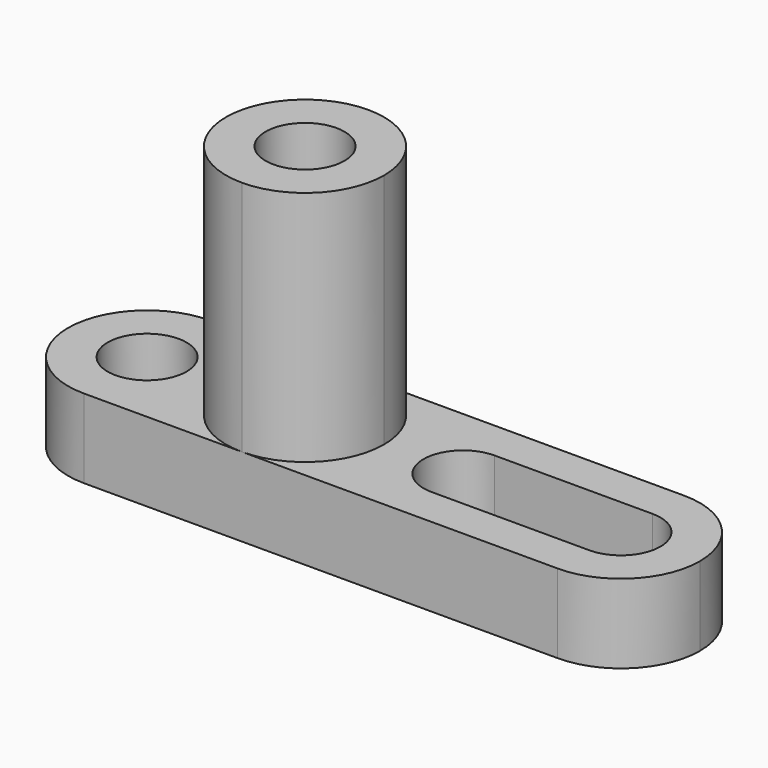
from build123d import *

# Parameters (mm, degrees)
F1_DEPTH  = 25.4
F3_DEPTH  = 38.1
F4_R      = 6.35
F5_DEPTH  = 63.5
F6_R      = 6.35
F7_DEPTH  = 25.4
F9_DEPTH  = 25.4
F11_DEPTH = 25.4
F13_DEPTH = 25.4


with BuildPart() as f1:
    # F0 (on Front) → F1 (new body)
    with BuildSketch(Plane.XZ):
        Polygon((-101.6, 0), (0, 0), (0, 12.7), (-50.8, 12.7), (-50.8, 50.8), (-76.2, 50.8), (-76.2, 12.7), (-101.6, 12.7), align=None)
    extrude(amount=F1_DEPTH)

    # F2 (on face) → F3 (cut)
    with BuildSketch(Plane.XY.offset(50.8)):
        with BuildLine():
            ThreePointArc((-63.5, 0), (-54.5197438789, -3.7197438789), (-50.8, -12.7))
            Line((-50.8, -12.7), (-50.8, 0))
            Line((-50.8, 0), (-63.5, 0))
        make_face()
        with BuildLine():
            ThreePointArc((-76.2, -12.7), (-72.4802561211, -3.7197438789), (-63.5, 0))
            Line((-63.5, 0), (-76.2, 0))
            Line((-76.2, 0), (-76.2, -12.7))
        make_face()
        with BuildLine():
            Line((-76.2, -25.4), (-63.5, -25.4))
            ThreePointArc((-63.5, -25.4), (-72.4802561211, -21.6802561211), (-76.2, -12.7))
            Line((-76.2, -12.7), (-76.2, -25.4))
        make_face()
        with BuildLine():
            Line((-50.8, -25.4), (-50.8, -12.7))
            ThreePointArc((-50.8, -12.7), (-54.5197438789, -21.6802561211), (-63.5, -25.4))
            Line((-63.5, -25.4), (-50.8, -25.4))
        make_face()
    extrude(amount=-F3_DEPTH, mode=Mode.SUBTRACT)

    # F4 (on face) → F5 (cut)
    with BuildSketch(Plane.XY.offset(50.8)):
        with Locations((-63.5, -12.7)):
            Circle(F4_R)
    extrude(amount=-F5_DEPTH, mode=Mode.SUBTRACT)

    # F6 (on face) → F7 (cut)
    with BuildSketch(Plane.XY.offset(12.7)):
        with Locations((-88.9, -12.7)):
            Circle(F6_R)
    extrude(amount=-F7_DEPTH, mode=Mode.SUBTRACT)

    # F8 (on face) → F9 (cut)
    with BuildSketch(Plane.XY.offset(12.7)):
        with BuildLine():
            ThreePointArc((-101.6, -12.7), (-97.8802561211, -3.7197438789), (-88.9, 0))
            Line((-88.9, 0), (-101.6, 0))
            Line((-101.6, 0), (-101.6, -12.7))
        make_face()
        with BuildLine():
            Line((-101.6, -25.4), (-88.9, -25.4))
            ThreePointArc((-88.9, -25.4), (-97.8802561211, -21.6802561211), (-101.6, -12.7))
            Line((-101.6, -12.7), (-101.6, -25.4))
        make_face()
    extrude(amount=-F9_DEPTH, mode=Mode.SUBTRACT)

    # F10 (on face) → F11 (cut)
    with BuildSketch(Plane.XY.offset(12.7)):
        with BuildLine():
            ThreePointArc((-37.9124571555, -19.0472299219), (-33.5440480104, -17.1233247076), (-31.75, -12.7))
            ThreePointArc((-31.75, -12.7), (-33.6098719395, -8.2098719395), (-38.1, -6.35))
            ThreePointArc((-38.1, -6.35), (-44.4493074427, -12.6062183495), (-38.2875428445, -19.0472299219))
            Line((-38.2875428445, -19.0472299219), (-37.9124571555, -19.0472299219))
        make_face()
        with BuildLine():
            ThreePointArc((-38.1, -6.35), (-33.6098719395, -8.2098719395), (-31.75, -12.7))
            ThreePointArc((-31.75, -12.7), (-33.5440480104, -17.1233247076), (-37.9124571555, -19.0472299219))
            Line((-37.9124571555, -19.0472299219), (-12.8875428445, -19.0472299219))
            ThreePointArc((-12.8875428445, -19.0472299219), (-19.0493074427, -12.6062183495), (-12.7, -6.35))
            Line((-12.7, -6.35), (-38.1, -6.35))
        make_face()
        with BuildLine():
            ThreePointArc((-6.35, -12.7), (-8.2098719395, -8.2098719395), (-12.7, -6.35))
            ThreePointArc((-12.7, -6.35), (-19.0493074427, -12.6062183495), (-12.8875428445, -19.0472299219))
            Line((-12.8875428445, -19.0472299219), (-12.5124571555, -19.0472299219))
            ThreePointArc((-12.5124571555, -19.0472299219), (-8.1440480104, -17.1233247076), (-6.35, -12.7))
        make_face()
    extrude(amount=-F11_DEPTH, mode=Mode.SUBTRACT)

    # F12 (on face) → F13 (cut)
    with BuildSketch(Plane.XY.offset(12.7)):
        with BuildLine():
            ThreePointArc((-12.7, 0), (-3.7197438789, -3.7197438789), (0, -12.7))
            Line((0, -12.7), (0, 0))
            Line((0, 0), (-12.7, 0))
        make_face()
        with BuildLine():
            Line((0, -25.4), (0, -12.7))
            ThreePointArc((0, -12.7), (-3.7197438896, -21.6802561317), (-12.7000000301, -25.4))
            Line((-12.7000000301, -25.4), (0, -25.4))
        make_face()
    extrude(amount=-F13_DEPTH, mode=Mode.SUBTRACT)


solid = f1.part
